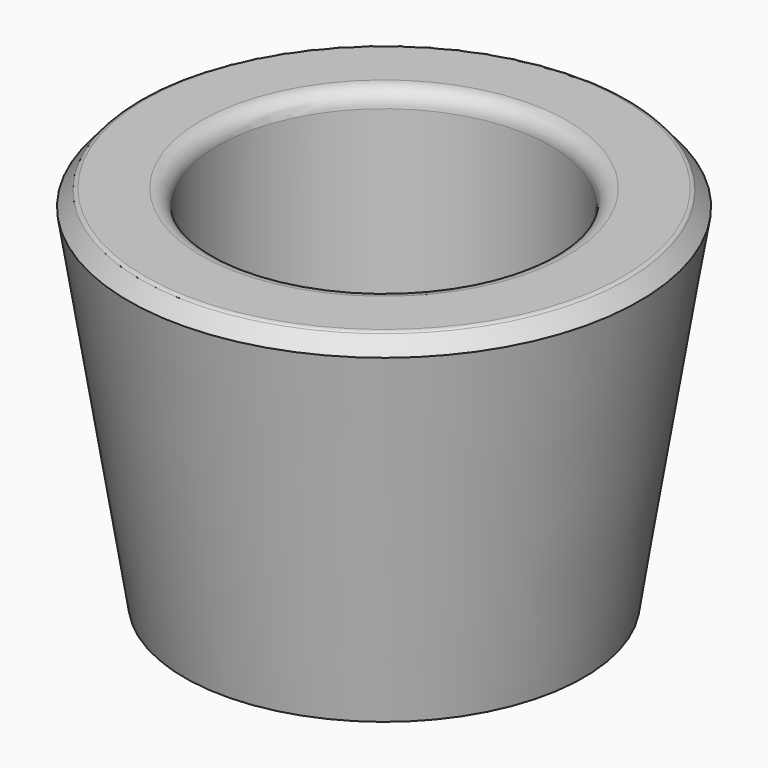
from build123d import *

# Parameters (mm, degrees)
F2_R    = 5
F3_SIZE = 5
F4_R    = 1.5


with BuildPart() as f1:
    # F0 (on Front) → F1 (revolve)
    with BuildSketch(Plane.XZ):
        Polygon((-60, 0), (0, 0), (0, 15), (-50, 15), (-50, 110), (-77.5635960527, 110), align=None)
    revolve(axis=Axis((0, 0, -4.634299256), (0, 0, -1)))

    # F2
    f2_edges = [f1.edges().sort_by_distance(p)[0] for p in [
        (50, 0, 110),
    ]]
    fillet(f2_edges, radius=F2_R)

    # F3
    f3_edges = [f1.edges().sort_by_distance(p)[0] for p in [
        (77.563596, 0, 110),
    ]]
    chamfer(f3_edges, length=F3_SIZE)

    # F4
    f4_edges = [f1.edges().sort_by_distance(p)[0] for p in [
        (72.563596, 0, 110),
    ]]
    fillet(f4_edges, radius=F4_R)


solid = f1.part
